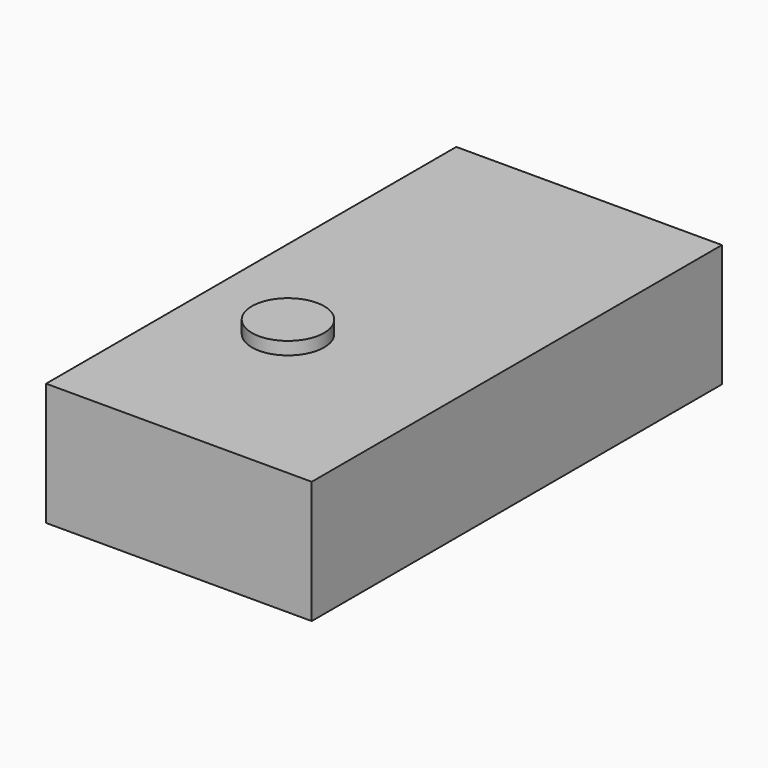
from build123d import *

# Parameters (mm, degrees)
F0_W      = 20.792707
F0_H      = 8.173682
F1_DEPTH  = 40.132
F1_FACE_W = 20.792708
F1_FACE_H = 40.132
F2_DEPTH  = 9.6
F3_R      = 2.830094
F4_DEPTH  = 1


with BuildPart() as f1:
    # F0 (on Front) → F1 (new body)
    with BuildSketch(Plane.XZ):
        with Locations((-39.32491, 51.878687)):
            Rectangle(F0_W, F0_H)
    extrude(amount=F1_DEPTH)


with BuildPart() as f2:
    # F1_face (on face) → F2 (new body)
    with BuildSketch(Plane(origin=(-39.324909, -20.066, 55.965528), x_dir=(1, 0, 0), z_dir=(0, 0, 1))):
        Rectangle(F1_FACE_W, F1_FACE_H)
    extrude(amount=-F2_DEPTH)


with BuildPart() as f4:
    # F3 (on face) → F4 (new body)
    with BuildSketch(Plane.XY.offset(55.965528)):
        with Locations((-42.276166, -25.768988)):
            Circle(F3_R)
    extrude(amount=F4_DEPTH)


solid = Compound([f1.part, f2.part, f4.part])
